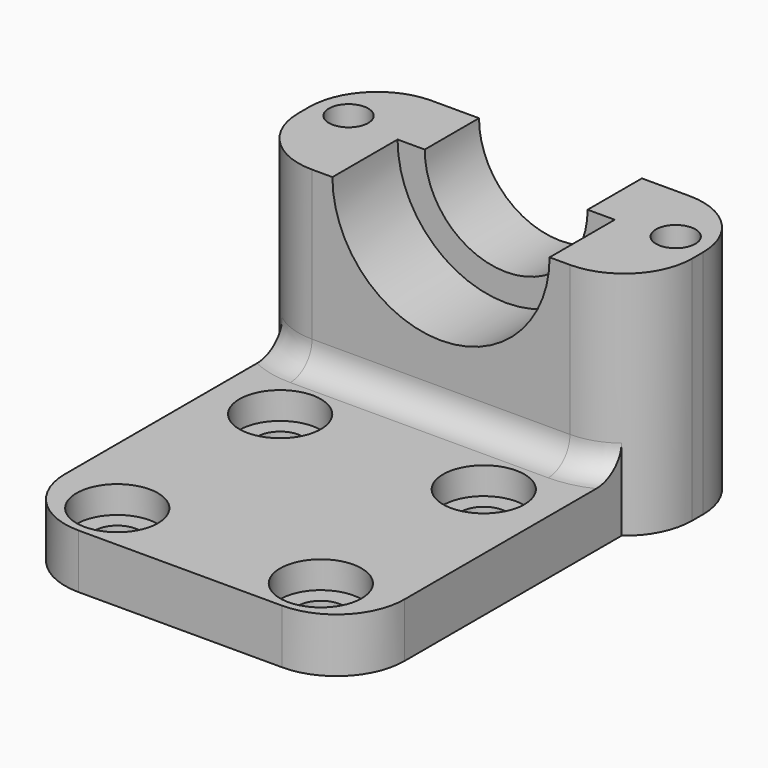
from build123d import *

# Parameters (mm, degrees)
F0_W      = 25
F0_H      = 35
F1_DEPTH  = 4
F2_R      = 1.675
F3_DEPTH  = 25
F4_W      = 25
F4_H      = 11
F5_DEPTH  = 13
F7_DEPTH  = 6
F8_R      = 8
F9_DEPTH  = 6
F2_R_2    = 3
F10_DEPTH = 2
F11_R     = 5
F13_DEPTH = 2
F14_W     = 11
F14_H     = 17
F15_DEPTH = 2
F16_R     = 1.45
F17_DEPTH = 25
F18_R     = 5
F19_R     = 2


with BuildPart() as f1:
    # F0 (on Top) → F1 (new body)
    with BuildSketch(Plane.XY):
        with Locations((12.5, 17.5)):
            Rectangle(F0_W, F0_H)
    extrude(amount=F1_DEPTH)

    # F2 (on face) → F3 (cut)
    with BuildSketch(Plane.XY.offset(4)):
        with BuildLine():
            ThreePointArc((3.325, 18.5605346784), (5, 16.8855346784), (6.675, 18.5605346784))
            ThreePointArc((6.675, 18.5605346784), (5, 20.2355346784), (3.325, 18.5605346784))
        make_face()
        with Locations((20, 18.5605346784)):
            Circle(F2_R)
        with Locations((20, 3.5605346784)):
            Circle(F2_R)
        with Locations((5, 3.5605346784)):
            Circle(F2_R)
    extrude(amount=-F3_DEPTH, mode=Mode.SUBTRACT)

    # F4 (on face) → F5 (join)
    with BuildSketch(Plane.XY.offset(4)):
        with Locations((12.5, 29.5)):
            Rectangle(F4_W, F4_H)
    extrude(amount=F5_DEPTH)

    # F6 (on face) → F7 (cut)
    with BuildSketch(Plane(origin=(0, 35, 0), x_dir=(-1, 0, 0), z_dir=(0, 1, 0))):
        with BuildLine():
            ThreePointArc((-18.5, 17), (-12.5, 11), (-6.5, 17))
            Line((-6.5, 17), (-18.5, 17))
        make_face()
    extrude(amount=-F7_DEPTH, mode=Mode.SUBTRACT)

    # F8 (on face) → F9 (cut)
    with BuildSketch(Plane.XZ.offset(-24)):
        with Locations((12.5, 17)):
            Circle(F8_R)
    extrude(amount=-F9_DEPTH, mode=Mode.SUBTRACT)

    # F2 (on face) → F10 (cut)
    with BuildSketch(Plane.XY.offset(4)):
        with BuildLine():
            ThreePointArc((8, 18.5605346784), (5, 21.5605346784), (2, 18.5605346784))
            ThreePointArc((2, 18.5605346784), (5, 15.5605346784), (8, 18.5605346784))
        make_face()
        with BuildLine():
            ThreePointArc((3.325, 18.5605346784), (5, 20.2355346784), (6.675, 18.5605346784))
            ThreePointArc((6.675, 18.5605346784), (5, 16.8855346784), (3.325, 18.5605346784))
        make_face(mode=Mode.SUBTRACT)
        with Locations((20, 18.5605346784)):
            Circle(F2_R_2)
        with Locations((20, 18.5605346784)):
            Circle(F2_R, mode=Mode.SUBTRACT)
        with Locations((20, 3.5605346784)):
            Circle(F2_R_2)
        with Locations((20, 3.5605346784)):
            Circle(F2_R, mode=Mode.SUBTRACT)
        with Locations((5, 3.5605346784)):
            Circle(F2_R_2)
        with Locations((5, 3.5605346784)):
            Circle(F2_R, mode=Mode.SUBTRACT)
    extrude(amount=-F10_DEPTH, mode=Mode.SUBTRACT)

    # F11
    f11_edges = [f1.edges().sort_by_distance(p)[0] for p in [
        (0, 0, 2),
        (25, 0, 2),
    ]]
    fillet(f11_edges, radius=F11_R)

    # F12 (on face) → F13 (join)
    with BuildSketch(Plane(origin=(0, 0, 0), x_dir=(0, -1, 0), z_dir=(-1, 0, 0))):
        Polygon((-35, 17), (-35, 0), (-24, 0), (-24, 4), (-24, 17), align=None)
    extrude(amount=F13_DEPTH)

    # F14 (on face) → F15 (join)
    with BuildSketch(Plane.YZ.offset(25)):
        with Locations((29.5, 8.5)):
            Rectangle(F14_W, F14_H)
    extrude(amount=F15_DEPTH)

    # F16 (on face) → F17 (cut)
    with BuildSketch(Plane.XY.offset(17)):
        with Locations((0.45, 30.55)):
            Circle(F16_R)
        with Locations((24.55, 30.55)):
            Circle(F16_R)
    extrude(amount=-F17_DEPTH, mode=Mode.SUBTRACT)

    # F18
    f18_edges = [f1.edges().sort_by_distance(p)[0] for p in [
        (-2, 24, 8.5),
        (-2, 35, 8.5),
        (27, 35, 8.5),
        (27, 24, 8.5),
    ]]
    fillet(f18_edges, radius=F18_R)

    # F19
    f19_edges = [f1.edges().sort_by_distance(p)[0] for p in [
        (12.5, 24, 4),
        (23.581139, 24.256584, 4),
        (1.418861, 24.256584, 4),
    ]]
    fillet(f19_edges, radius=F19_R)


solid = f1.part
